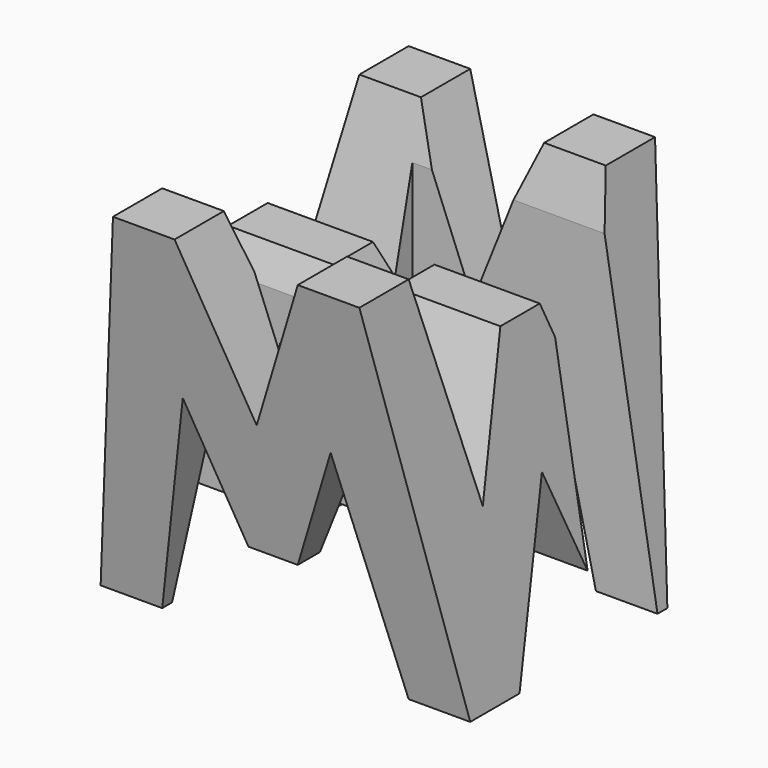
from build123d import *

# Parameters (mm, degrees)
F0_W      = 38.1
F0_H      = 38.1
F1_DEPTH  = 38.1
F6_DEPTH  = 38.1
F8_DEPTH  = 38.1
F9_W      = 25.270408
F9_H      = 7.62
F9_W_2    = 25.464796
F10_DEPTH = 38.1


with BuildPart() as f1:
    # F0 (on Front) → F1 (new body)
    with BuildSketch(Plane.XZ):
        with Locations((19.05, 19.05)):
            Rectangle(F0_W, F0_H)
    extrude(amount=F1_DEPTH)

    # F5 (on offset) → F6 (cut)
    with BuildSketch(Plane.YZ.offset(38.1)):
        Polygon((-31.75, 0), (-38.1, 38.1), (-38.1, 0), align=None)
        Polygon((-25.4, 0), (-12.7, 0), (-19.05, 16.622577), align=None)
        Polygon((-11.43, 16.622577), (-6.35, 38.1), (-31.75, 38.1), (-26.67, 16.622577), (-21.59, 30.142272), (-16.51, 30.142272), align=None)
        Polygon((-6.35, 0), (0, 0), (0, 38.1), align=None)
    extrude(amount=-F6_DEPTH, mode=Mode.SUBTRACT)

    # F7 (on offset) → F8 (cut)
    with BuildSketch(Plane.XZ.offset(38.1)):
        Polygon((0, 38.1), (0, 0), (6.35, 38.1), align=None)
        Polygon((25.4, 38.1), (12.7, 38.1), (19.05, 22.225), align=None)
        Polygon((11.43, 22.225), (6.35, 0), (31.75, 0), (26.67, 22.225), (21.59, 9.525), (16.51, 9.525), align=None)
        Polygon((31.75, 38.1), (38.1, 0), (38.1, 38.1), align=None)
    extrude(amount=-F8_DEPTH, mode=Mode.SUBTRACT)

    # F9 (on offset) → F10 (cut)
    with BuildSketch(Plane.XY.offset(38.1)):
        with Locations((25.464796, -11.43)):
            Rectangle(F9_W, F9_H)
        with Locations((12.732398, -26.67)):
            Rectangle(F9_W_2, F9_H)
    extrude(amount=-F10_DEPTH, mode=Mode.SUBTRACT)


solid = f1.part
